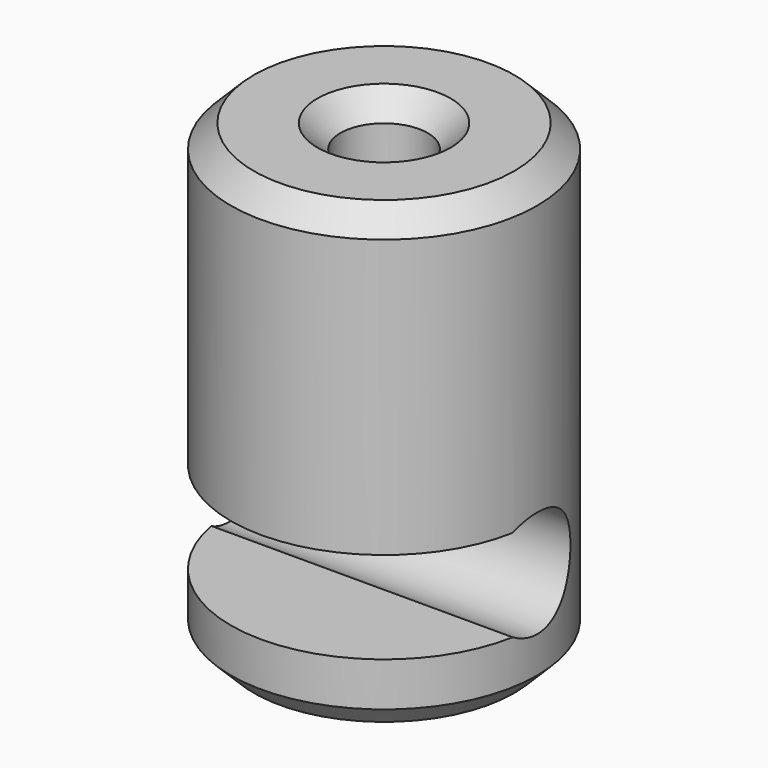
from build123d import *

# Parameters (mm, degrees)
F0_R          = 10
F1_DEPTH      = 30
F2_R          = 2.85
F3_DEPTH      = 15
F4_R          = 3.5
F5_DEPTH      = 10
F5_DEPTH_BACK = 10
F7_W          = 11.9265963338
F7_H          = 6
F8_DEPTH      = 10
F8_DEPTH_BACK = 10
F9_SIZE       = 1.5


with BuildPart() as f1:
    # F0 (on Top) → F1 (new body)
    with BuildSketch(Plane.XY):
        Circle(F0_R)
    extrude(amount=-F1_DEPTH)

    # F2 (on face) → F3 (cut)
    with BuildSketch(Plane.XY):
        Circle(F2_R)
    extrude(amount=-F3_DEPTH, mode=Mode.SUBTRACT)

    # F4 (on Right) → F5 (cut, two sides)
    with BuildSketch(Plane.YZ) as f5_sk:
        with Locations((0, -22.625)):
            Circle(F4_R)
    extrude(amount=-F5_DEPTH, mode=Mode.SUBTRACT)
    extrude(f5_sk.sketch, amount=F5_DEPTH_BACK, mode=Mode.SUBTRACT)

    # F7 (on Right) → F8 (cut, two sides)
    with BuildSketch(Plane.YZ) as f8_sk:
        with Locations((-5.9632981669, -22.625)):
            Rectangle(F7_W, F7_H)
    extrude(amount=-F8_DEPTH, mode=Mode.SUBTRACT)
    extrude(f8_sk.sketch, amount=F8_DEPTH_BACK, mode=Mode.SUBTRACT)

    # F9
    f9_edges = [f1.edges().sort_by_distance(p)[0] for p in [
        (-2.85, 0, 0),
        (-10, 0, 0),
        (-10, 0, -30),
    ]]
    chamfer(f9_edges, length=F9_SIZE)


solid = f1.part
